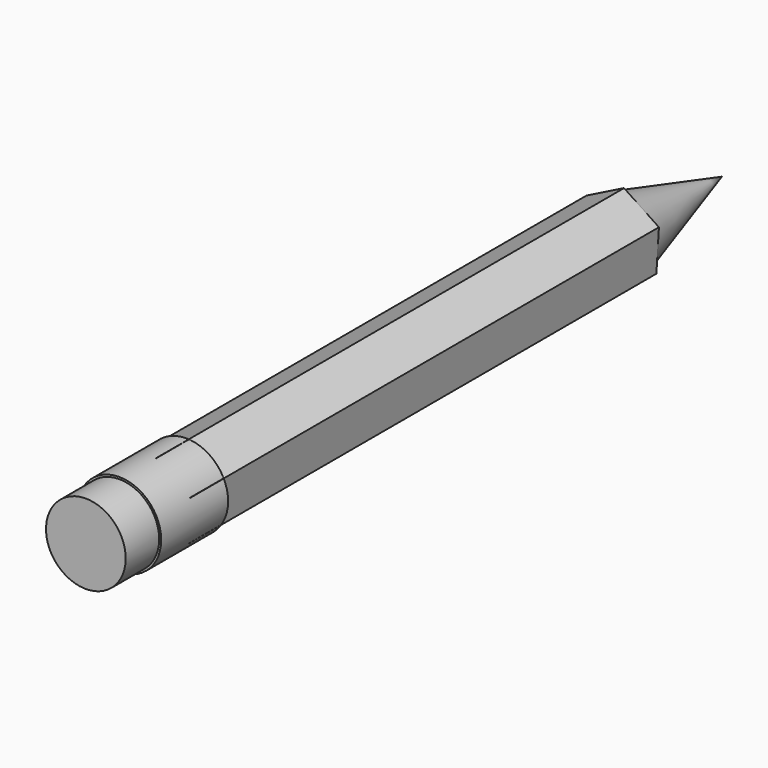
from build123d import *

# Parameters (mm, degrees)
F1_DEPTH = 177.8
F4_R     = 12.7
F5_DEPTH = 12.7
F6_R     = 12.09476
F7_DEPTH = 12.7


with BuildPart() as f1:
    # F0 (on Front) → F1 (new body)
    with BuildSketch(Plane.XZ):
        Polygon((-0.768505, -12.676727), (10.594115, -7.003908), (11.36262, 5.672819), (0.768505, 12.676727), (-10.594115, 7.003908), (-11.36262, -5.672819), align=None)
    extrude(amount=F1_DEPTH)

    # F2 (on Top) → F3 (revolve)
    with BuildSketch(Plane.XY):
        Polygon((0, 38.1), (0, 0), (10.922, 0), align=None)
    revolve(axis=Axis((0, 19.05, 0), (0, 1, 0)))


with BuildPart() as f5:
    # F4 (on face) → F5 (new body, symmetric)
    with BuildSketch(Plane.XZ.offset(177.8)):
        Circle(F4_R)
    extrude(amount=F5_DEPTH, both=True)


with BuildPart() as f7:
    # F6 (on face) → F7 (new body)
    with BuildSketch(Plane.XZ.offset(190.5)):
        Circle(F6_R)
    extrude(amount=F7_DEPTH)


solid = Compound([f1.part, f5.part, f7.part])
